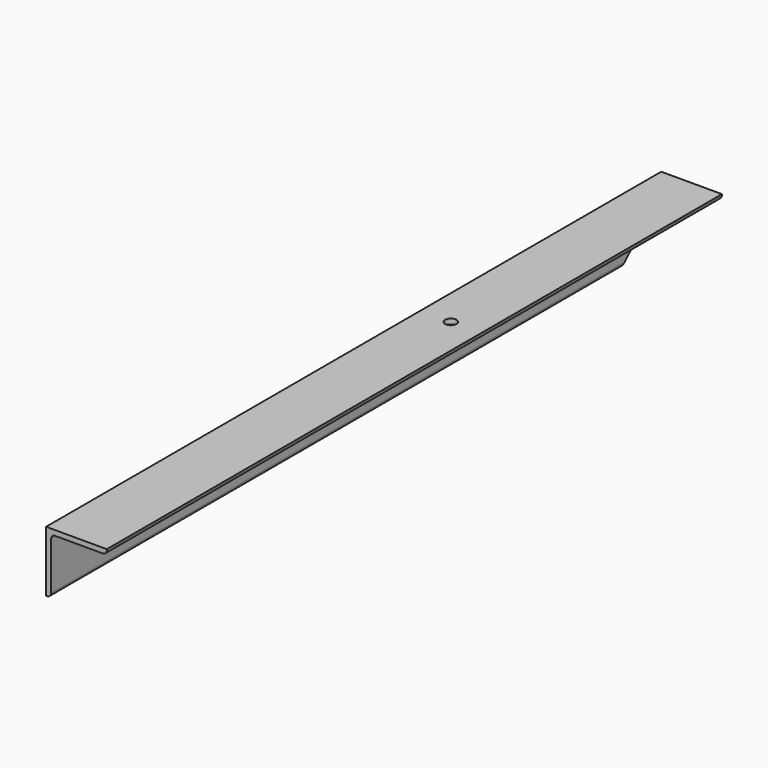
from build123d import *

# Parameters (mm, degrees)
F1_DEPTH = 482.6
F3_DEPTH = 6.351
F5_R     = 5.08
F4_R     = 7.14375
F6_DEPTH = 101.6


with BuildPart() as f1:
    # F0 (on Front) → F1 (new body, symmetric)
    with BuildSketch(Plane.XZ):
        Polygon((-6.35, 0), (0, 0), (0, 69.85), (69.85, 69.85), (69.85, 76.2), (-6.35, 76.2), align=None)
    extrude(amount=F1_DEPTH, both=True)

    # F2 (on Right) → F3 (cut, through all)
    with BuildSketch(Plane.YZ):
        Polygon((482.6, 0), (482.6, 69.85), (412.75, 0), align=None)
    extrude(amount=-F3_DEPTH, mode=Mode.SUBTRACT)

    # F5
    f5_edges = [f1.edges().sort_by_distance(p)[0] for p in [
        (0, 0, 69.85),
        (69.85, 0, 69.85),
        (0, -34.925, 0),
    ]]
    fillet(f5_edges, radius=F5_R)

    # F4 (on Top) → F6 (cut)
    with BuildSketch(Plane.XY):
        with Locations((31.806327, 104.775)):
            Circle(F4_R)
    extrude(amount=F6_DEPTH, mode=Mode.SUBTRACT)


solid = f1.part
